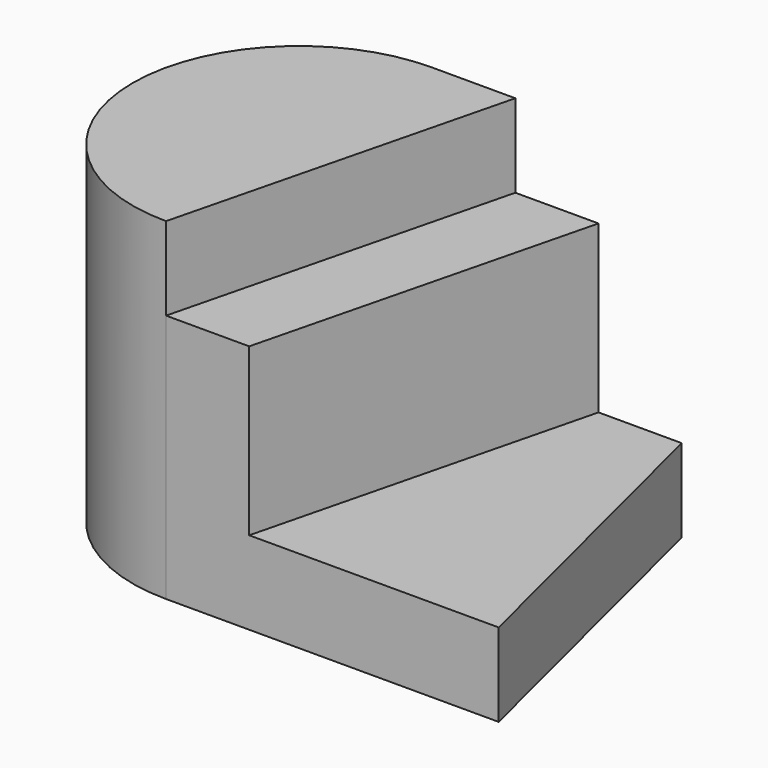
from build123d import *

# Parameters (mm, degrees)
F1_DEPTH = 40
F3_DEPTH = 30
F5_DEPTH = 10


with BuildPart() as f1:
    # F0 (on Top) → F1 (new body)
    with BuildSketch(Plane.XY):
        with BuildLine():
            Line((-10.132746, 0), (29.867254, 0))
            Line((29.867254, 0), (19.867254, 40))
            Line((19.867254, 40), (-10.132746, 40))
            ThreePointArc((-10.132746, 40), (-30.132746, 20), (-10.132746, 0))
        make_face()
    extrude(amount=F1_DEPTH)

    # F2 (on face) → F3 (cut)
    with BuildSketch(Plane.XY.offset(40)):
        Polygon((19.867254, 40), (9.867254, 40), (-0.132746, 0), (29.867254, 0), align=None)
    extrude(amount=-F3_DEPTH, mode=Mode.SUBTRACT)

    # F4 (on face) → F5 (cut)
    with BuildSketch(Plane.XY.offset(40)):
        Polygon((9.867254, 40), (-0.132746, 40), (-10.132746, 0), (-0.132746, 0), align=None)
    extrude(amount=-F5_DEPTH, mode=Mode.SUBTRACT)


solid = f1.part
